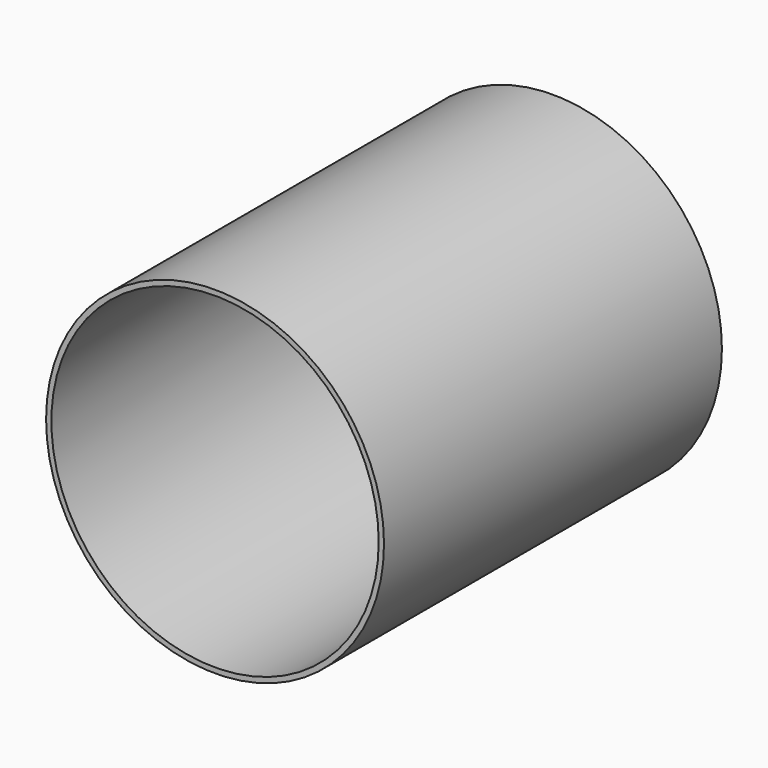
from build123d import *

# Parameters (mm, degrees)
F0_R     = 80
F1_DEPTH = 200
F2_T     = -2.5


with BuildPart() as f1:
    # F0 (on Front) → F1 (new body)
    with BuildSketch(Plane.XZ):
        with Locations((3.699253, 0)):
            Circle(F0_R)
    extrude(amount=-F1_DEPTH)

    # F2
    f2_openings = [f1.faces().sort_by_distance(p)[0] for p in [
        (3.699253, 0, 0),
        (3.699253, 200, 0),
    ]]
    offset(amount=F2_T, openings=f2_openings)


solid = f1.part
